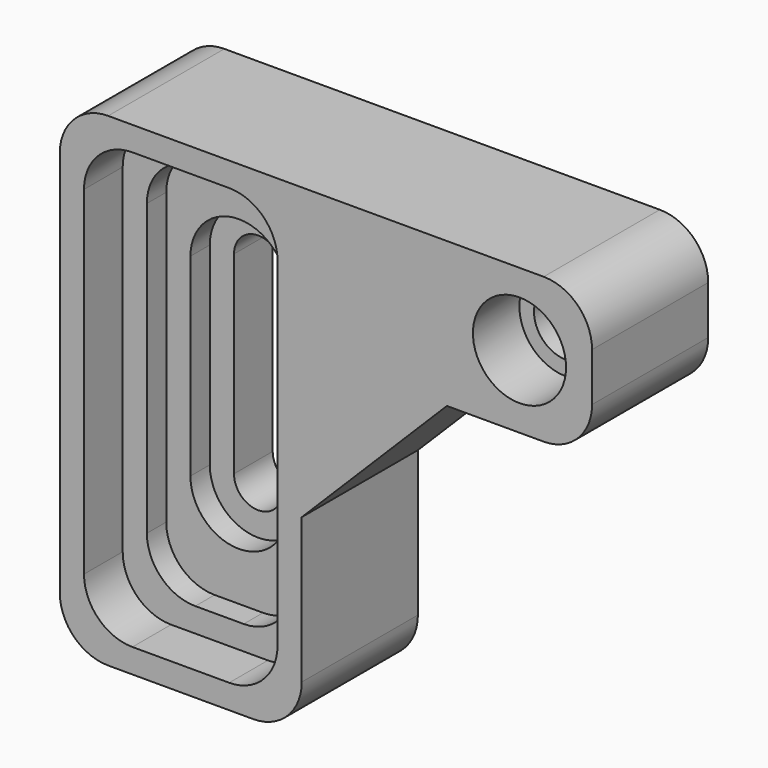
from build123d import *

# Parameters (mm, degrees)
F0_W           = 40
F0_H           = 90
F1_DEPTH       = 30
F3_DEPTH       = 20
F4_DEPTH       = 30
F5_D           = 13.2
F5_CBORE_D     = 19.25
F5_CBORE_DEPTH = 12
F6_DEPTH       = 10
F7_DEPTH       = 15


with BuildPart() as f1:
    # F0 (on Front) → F1 (new body)
    with BuildSketch(Plane.XZ):
        with BuildLine():
            Line((0, -30), (0, 0))
            Line((0, 0), (30, 30))
            Line((30, 30), (50, 30))
            ThreePointArc((50, 30), (57.0710678119, 32.9289321881), (60, 40))
            Line((60, 40), (60, 50))
            ThreePointArc((60, 50), (57.0710678119, 57.0710678119), (50, 60))
            Line((50, 60), (-40, 60))
            ThreePointArc((-40, 60), (-47.0710678119, 57.0710678119), (-50, 50))
            Line((-50, 50), (-50, -30))
            ThreePointArc((-50, -30), (-47.0710678119, -37.0710678119), (-40, -40))
            Line((-40, -40), (-10, -40))
            ThreePointArc((-10, -40), (-2.9289321881, -37.0710678119), (0, -30))
        make_face()
        with Locations((-25, 10)):
            Rectangle(F0_W, F0_H, mode=Mode.SUBTRACT)
        with Locations((-25, 10)):
            Rectangle(F0_W, F0_H)
    extrude(amount=-F1_DEPTH)

    # F2 (on face) → F3 (cut)
    with BuildSketch(Plane.XZ):
        with BuildLine():
            Line((-15, -10), (-15, 30))
            ThreePointArc((-15, 30), (-25, 40), (-35, 30))
            Line((-35, 30), (-35, -10))
            ThreePointArc((-35, -10), (-25, -20), (-15, -10))
        make_face()
        with BuildLine():
            ThreePointArc((-30, 30), (-25, 35), (-20, 30))
            Line((-20, 30), (-20, -10))
            ThreePointArc((-20, -10), (-25, -15), (-30, -10))
            Line((-30, -10), (-30, 30))
        make_face(mode=Mode.SUBTRACT)
    extrude(amount=-F3_DEPTH, mode=Mode.SUBTRACT)

    # F2 (on face) → F4 (cut)
    with BuildSketch(Plane.XZ):
        with BuildLine():
            Line((-20, -10), (-20, 30))
            ThreePointArc((-20, 30), (-25, 35), (-30, 30))
            Line((-30, 30), (-30, -10))
            ThreePointArc((-30, -10), (-25, -15), (-20, -10))
        make_face()
    extrude(amount=-F4_DEPTH, mode=Mode.SUBTRACT)

    # F5 (through all)
    with Locations(Plane.XZ):
        with Locations((45, 45)):
            CounterBoreHole(F5_D / 2, F5_CBORE_D / 2, F5_CBORE_DEPTH)

    # F2 (on face) → F6 (cut)
    with BuildSketch(Plane.XZ):
        with BuildLine():
            ThreePointArc((-35, 55), (-42.0710678119, 52.0710678119), (-45, 45))
            Line((-45, 45), (-45, -25))
            ThreePointArc((-45, -25), (-42.0710678119, -32.0710678119), (-35, -35))
            Line((-35, -35), (-15, -35))
            ThreePointArc((-15, -35), (-7.9289321881, -32.0710678119), (-5, -25))
            Line((-5, -25), (-5, 45))
            ThreePointArc((-5, 45), (-7.9289321881, 52.0710678119), (-15, 55))
            Line((-15, 55), (-35, 55))
        make_face()
        with BuildLine():
            Line((-30.0000007451, 50.0000007451), (-19.9999992549, 50.0000007451))
            ThreePointArc((-19.9999992549, 50.0000007451), (-12.9289314431, 47.0710685569), (-9.9999992549, 40.0000007451))
            Line((-9.9999992549, 40.0000007451), (-9.9999992549, -20.0000007451))
            ThreePointArc((-9.9999992549, -20.0000007451), (-12.9289314431, -27.0710685569), (-19.9999992549, -30.0000007451))
            Line((-19.9999992549, -30.0000007451), (-30.0000007451, -30.0000007451))
            ThreePointArc((-30.0000007451, -30.0000007451), (-37.0710685569, -27.0710685569), (-40.0000007451, -20.0000007451))
            Line((-40.0000007451, -20.0000007451), (-40.0000007451, 40.0000007451))
            ThreePointArc((-40.0000007451, 40.0000007451), (-37.0710685569, 47.0710685569), (-30.0000007451, 50.0000007451))
        make_face(mode=Mode.SUBTRACT)
    extrude(amount=-F6_DEPTH, mode=Mode.SUBTRACT)

    # F7 (cut): a face of the model
    f7_faces = [f1.faces().sort_by_distance(p)[0] for p in [
        (-36.4669162447, 0, -26.4669162447),
    ]]
    extrude(f7_faces, amount=-F7_DEPTH, mode=Mode.SUBTRACT)


solid = f1.part
